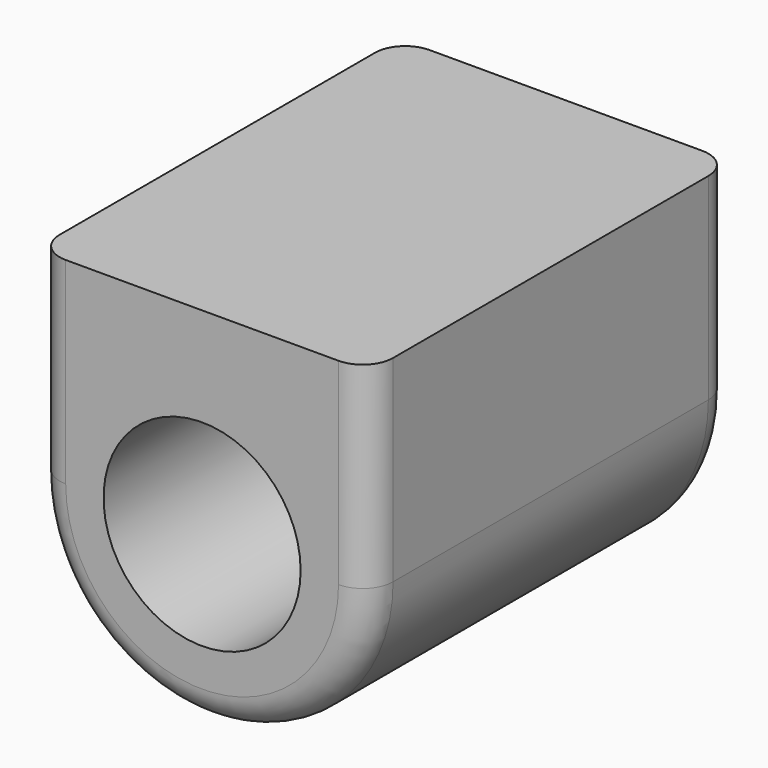
from build123d import *

# Parameters (mm, degrees)
F0_R     = 3.25
F1_DEPTH = 15
F2_R     = 1


with BuildPart() as f1:
    # F0 (on Front) → F1 (new body)
    with BuildSketch(Plane.XZ):
        with BuildLine():
            ThreePointArc((-5.5, 0), (0, -5.5), (5.5, 0))
            ThreePointArc((5.5, 0), (0, 5.5), (-5.5, 0))
        make_face()
        Circle(F0_R, mode=Mode.SUBTRACT)
        with BuildLine():
            ThreePointArc((-5.5, 0), (0, 5.5), (5.5, 0))
            Line((5.5, 0), (5.5, 6.5))
            Line((5.5, 6.5), (-5.5, 6.5))
            Line((-5.5, 6.5), (-5.5, 0))
        make_face()
    extrude(amount=F1_DEPTH)

    # F2
    f2_edges = [f1.edges().sort_by_distance(p)[0] for p in [
        (0, -15, -5.5),
        (0, 0, -5.5),
    ]]
    fillet(f2_edges, radius=F2_R)


solid = f1.part
